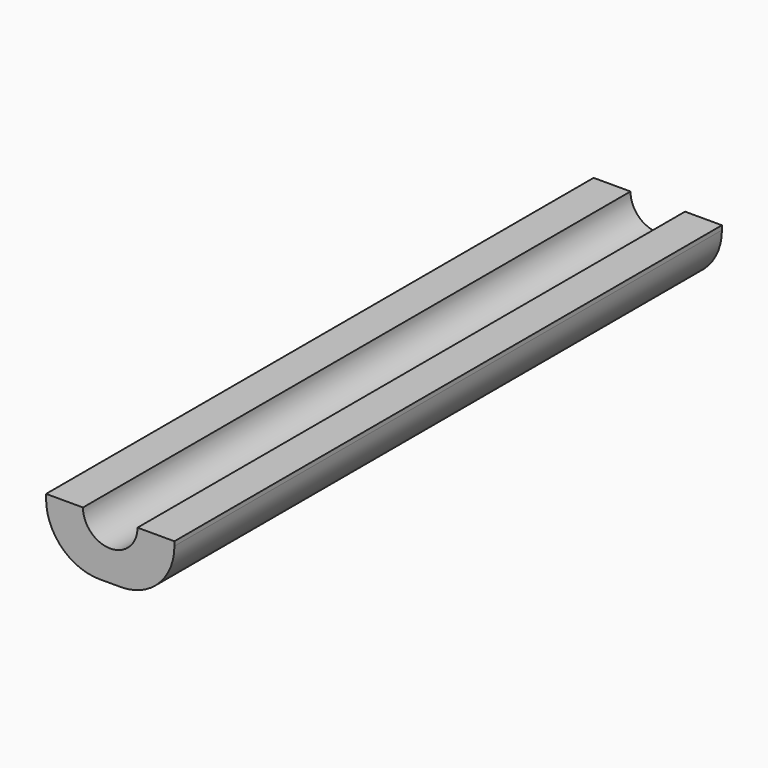
from build123d import *

# Parameters (mm, degrees)
F1_DEPTH = 160
F2_R     = 25


with BuildPart() as f1:
    # F0 (on Front) → F1 (new body, symmetric)
    with BuildSketch(Plane.XZ):
        with BuildLine():
            Line((-30, -13.5), (30, -13.5))
            Line((30, -13.5), (30, 13.5))
            Line((30, 13.5), (12.75, 13.5))
            ThreePointArc((12.75, 13.5), (0, 0.75), (-12.75, 13.5))
            Line((-12.75, 13.5), (-30, 13.5))
            Line((-30, 13.5), (-30, -13.5))
        make_face()
    extrude(amount=F1_DEPTH, both=True)

    # F2
    f2_edges = [f1.edges().sort_by_distance(p)[0] for p in [
        (30, 0, -13.5),
        (-30, 0, -13.5),
    ]]
    fillet(f2_edges, radius=F2_R)


solid = f1.part
